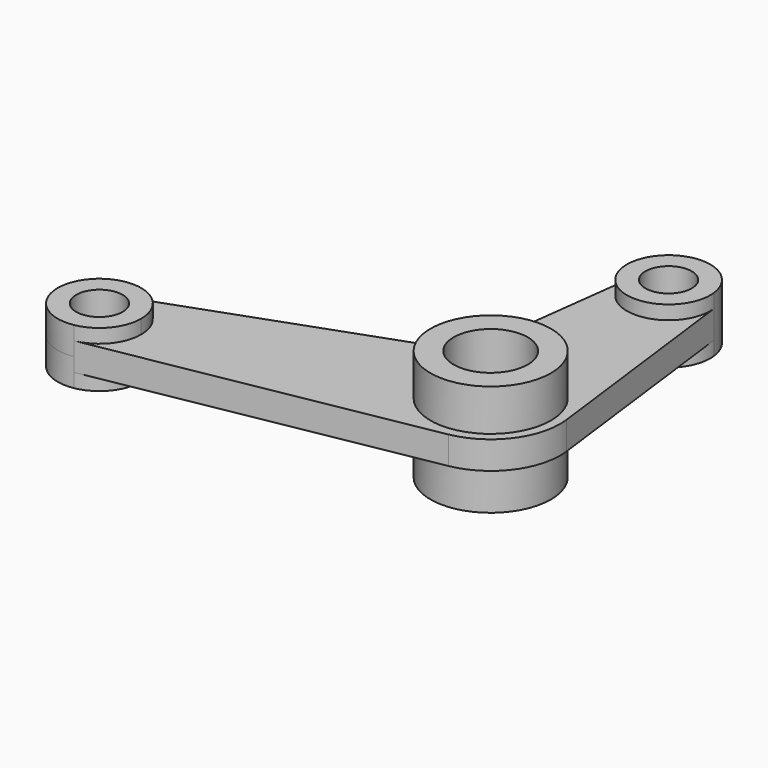
from build123d import *

# Parameters (mm, degrees)
F0_R     = 41.275
F1_DEPTH = 9.525
F0_R_2   = 25.4
F2_DEPTH = 38.1
F0_R_3   = 15.875
F3_DEPTH = 19.05
F4_R     = 25.4


with BuildPart() as f1:
    # F0 (on Top) → F1 (new body, symmetric)
    with BuildSketch(Plane.XY):
        with BuildLine():
            Line((-215.7407249902, -87.2876721291), (8.4498648325, -46.8693973645))
            ThreePointArc((8.4498648325, -46.8693973645), (-32.7711116329, -34.5571246973), (-47.251464821, 5.953125))
            Line((-47.251464821, 5.953125), (-43.6005938779, 34.9310147533))
            Line((-43.6005938779, 34.9310147533), (-230.4807845369, -32.277020994))
            ThreePointArc((-230.4807845369, -32.277020994), (-204.3758278578, -35.7902460874), (-192.2356438897, -59.1660337104))
            ThreePointArc((-192.2356438897, -59.1660337104), (-198.885731603, -77.4916672936), (-215.7407249902, -87.2876721291))
        make_face()
        with BuildLine():
            ThreePointArc((-47.251464821, 5.953125), (-37.1678516079, 29.7773644208), (-16.1169010787, 44.815021194))
            Line((-16.1169010787, 44.815021194), (-43.6005938779, 34.9310147533))
            Line((-43.6005938779, 34.9310147533), (-47.251464821, 5.953125))
        make_face()
        with BuildLine():
            ThreePointArc((8.4498648325, -46.8693973645), (36.5415204777, -30.5427226385), (47.625, 0))
            ThreePointArc((47.625, 0), (47.5315244711, 2.9824162099), (47.251464821, 5.953125))
            ThreePointArc((47.251464821, 5.953125), (24.8978314077, 40.598505098), (-16.1169010787, 44.815021194))
            ThreePointArc((-16.1169010787, 44.815021194), (-37.1678516079, 29.7773644208), (-47.251464821, 5.953125))
            ThreePointArc((-47.251464821, 5.953125), (-32.7711116329, -34.5571246973), (8.4498648325, -46.8693973645))
        make_face()
        Circle(F0_R, mode=Mode.SUBTRACT)
        with BuildLine():
            ThreePointArc((-16.1169010787, 44.815021194), (24.8978314077, 40.598505098), (47.251464821, 5.953125))
            Line((47.251464821, 5.953125), (28.3508788926, 155.971875))
            ThreePointArc((28.3508788926, 155.971875), (28.5189146827, 154.1894497259), (28.575, 152.4))
            ThreePointArc((28.575, 152.4), (-1.7894497259, 123.8810853173), (-28.3508788926, 155.971875))
            Line((-28.3508788926, 155.971875), (-43.6005938779, 34.9310147533))
            Line((-43.6005938779, 34.9310147533), (-16.1169010787, 44.815021194))
        make_face()
    extrude(amount=F1_DEPTH, both=True)

    # F0 (on Top) → F2 (join, symmetric)
    with BuildSketch(Plane.XY):
        Circle(F0_R)
        Circle(F0_R_2, mode=Mode.SUBTRACT)
    extrude(amount=F2_DEPTH, both=True)

    # F0 (on Top) → F3 (join, symmetric)
    with BuildSketch(Plane.XY):
        with BuildLine():
            ThreePointArc((-230.4807845369, -32.277020994), (-248.4119743759, -66.5617879242), (-215.7407249902, -87.2876721291))
            ThreePointArc((-215.7407249902, -87.2876721291), (-198.885731603, -77.4916672936), (-192.2356438897, -59.1660337104))
            ThreePointArc((-192.2356438897, -59.1660337104), (-204.3758278578, -35.7902460874), (-230.4807845369, -32.277020994))
        make_face()
        with Locations((-220.8106438897, -59.1660337104)):
            Circle(F0_R_3, mode=Mode.SUBTRACT)
        with BuildLine():
            ThreePointArc((28.575, 152.4), (28.5189146827, 154.1894497259), (28.3508788926, 155.971875))
            ThreePointArc((28.3508788926, 155.971875), (0, 180.975), (-28.3508788926, 155.971875))
            ThreePointArc((-28.3508788926, 155.971875), (-1.7894497259, 123.8810853173), (28.575, 152.4))
        make_face()
        with Locations((0, 152.4)):
            Circle(F0_R_3, mode=Mode.SUBTRACT)
    extrude(amount=F3_DEPTH, both=True)

    # F4
    f4_edges = [f1.edges().sort_by_distance(p)[0] for p in [
        (-43.600594, 34.931015, 0),
    ]]
    fillet(f4_edges, radius=F4_R)


solid = f1.part
